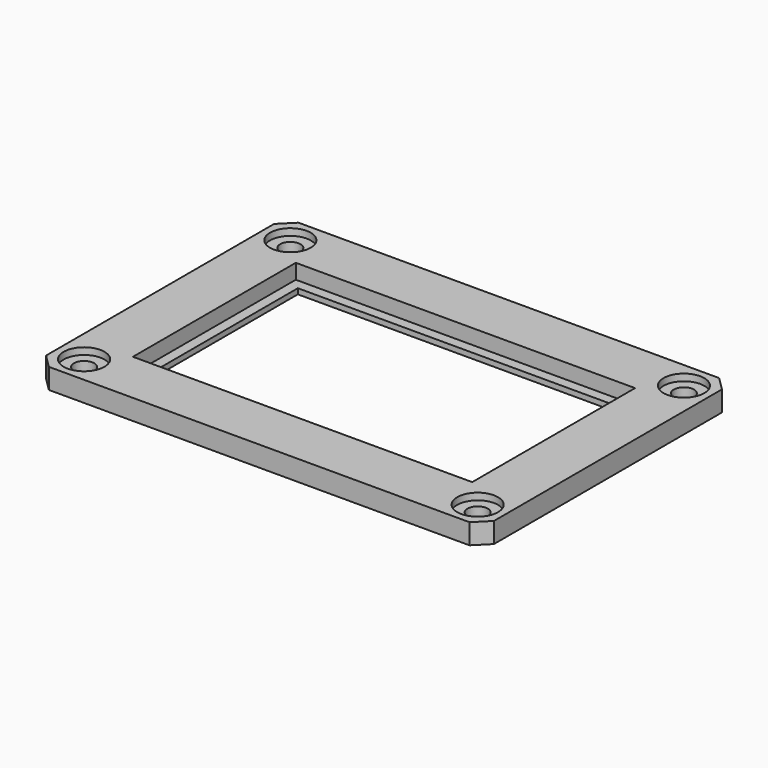
from build123d import *

# Parameters (mm, degrees)
CYLINDER007_R     = 3
CYLINDER007_DEPTH = 3
CYLINDER006_R     = 3
CYLINDER006_DEPTH = 3
CYLINDER004_R     = 3
CYLINDER004_DEPTH = 3
CYLINDER005_R     = 3
CYLINDER005_DEPTH = 3
CYLINDER001_R     = 1.5
CYLINDER001_DEPTH = 10
CYLINDER002_R     = 1.5
CYLINDER002_DEPTH = 10
CYLINDER003_R     = 1.5
CYLINDER003_DEPTH = 10
CYLINDER_R        = 1.5
CYLINDER_DEPTH    = 10
BOX_W             = 50
BOX_H             = 30
BOX_DEPTH         = 3
BOX002_W          = 47
BOX002_H          = 27
BOX002_DEPTH      = 6
BOX001_W          = 66
BOX001_H          = 46
BOX001_DEPTH      = 3
CHAMFER_SIZE      = 2
CHAMFER001_SIZE   = 2


with BuildPart() as obj1:
    # Cylinder007 → Cylinder007 (new body)
    with BuildSketch(Plane(origin=(54, -4, -2), x_dir=(1, 0, 0), z_dir=(0, 0, 1))):
        Circle(CYLINDER007_R)
    extrude(amount=CYLINDER007_DEPTH)


with BuildPart() as obj2:
    # Cylinder006 → Cylinder006 (new body)
    with BuildSketch(Plane(origin=(54, 34, -2), x_dir=(1, 0, 0), z_dir=(0, 0, 1))):
        Circle(CYLINDER006_R)
    extrude(amount=CYLINDER006_DEPTH)


with BuildPart() as obj3:
    # Cylinder004 → Cylinder004 (new body)
    with BuildSketch(Plane(origin=(-4, -4, -2), x_dir=(1, 0, 0), z_dir=(0, 0, 1))):
        Circle(CYLINDER004_R)
    extrude(amount=CYLINDER004_DEPTH)


with BuildPart() as compound001:
    # Cylinder005 → Cylinder005 (new body)
    with BuildSketch(Plane(origin=(-4, 34, -2), x_dir=(1, 0, 0), z_dir=(0, 0, 1))):
        Circle(CYLINDER005_R)
    extrude(amount=CYLINDER005_DEPTH)

    # Compound001: union obj1, obj2, obj3
    add(obj1.part)
    add(obj2.part)
    add(obj3.part)


with BuildPart() as compound001_1:
    # Compound001 placement: moved
    add(compound001.part.moved(Location((0, 0, 4))))


with BuildPart() as obj4:
    # Cylinder001 → Cylinder001 (new body)
    with BuildSketch(Plane(origin=(54, -4, -2), x_dir=(1, 0, 0), z_dir=(0, 0, 1))):
        Circle(CYLINDER001_R)
    extrude(amount=CYLINDER001_DEPTH)


with BuildPart() as obj5:
    # Cylinder002 → Cylinder002 (new body)
    with BuildSketch(Plane(origin=(54, 34, -2), x_dir=(1, 0, 0), z_dir=(0, 0, 1))):
        Circle(CYLINDER002_R)
    extrude(amount=CYLINDER002_DEPTH)


with BuildPart() as obj6:
    # Cylinder003 → Cylinder003 (new body)
    with BuildSketch(Plane(origin=(-4, -4, -2), x_dir=(1, 0, 0), z_dir=(0, 0, 1))):
        Circle(CYLINDER003_R)
    extrude(amount=CYLINDER003_DEPTH)


with BuildPart() as compound:
    # Cylinder → Cylinder (new body)
    with BuildSketch(Plane(origin=(-4, 34, -2), x_dir=(1, 0, 0), z_dir=(0, 0, 1))):
        Circle(CYLINDER_R)
    extrude(amount=CYLINDER_DEPTH)

    # Compound: union obj4, obj5, obj6
    add(obj4.part)
    add(obj5.part)
    add(obj6.part)


with BuildPart() as krychle:
    # Box → Box (new body)
    with BuildSketch(Plane.XY.offset(0.8)):
        with Locations((25, 15)):
            Rectangle(BOX_W, BOX_H)
    extrude(amount=BOX_DEPTH)


with BuildPart() as krychle002:
    # Box002 → Box002 (new body)
    with BuildSketch(Plane(origin=(1.5, 1.5, -1), x_dir=(1, 0, 0), z_dir=(0, 0, 1))):
        with Locations((23.5, 13.5)):
            Rectangle(BOX002_W, BOX002_H)
    extrude(amount=BOX002_DEPTH)


with BuildPart() as obj7:
    # Box001 → Box001 (new body)
    with BuildSketch(Plane(origin=(-8, -8, 0), x_dir=(1, 0, 0), z_dir=(0, 0, 1))):
        with Locations((33, 23)):
            Rectangle(BOX001_W, BOX001_H)
    extrude(amount=BOX001_DEPTH)

    # Cut: cut Krychle002
    add(krychle002.part, mode=Mode.SUBTRACT)

    # Cut001: cut Krychle
    add(krychle.part, mode=Mode.SUBTRACT)

    # Cut002: cut Compound
    add(compound.part, mode=Mode.SUBTRACT)

    # Cut003: cut Compound001
    add(compound001_1.part, mode=Mode.SUBTRACT)

    # Chamfer
    chamfer_edges = [obj7.edges().sort_by_distance(p)[0] for p in [
        (-8, -8, 1.5),
        (58, -8, 1.5),
    ]]
    chamfer(chamfer_edges, length=CHAMFER_SIZE)

    # Chamfer001
    chamfer001_edges = [obj7.edges().sort_by_distance(p)[0] for p in [
        (-8, 38, 1.5),
        (58, 38, 1.5),
    ]]
    chamfer(chamfer001_edges, length=CHAMFER001_SIZE)


solid = obj7.part
